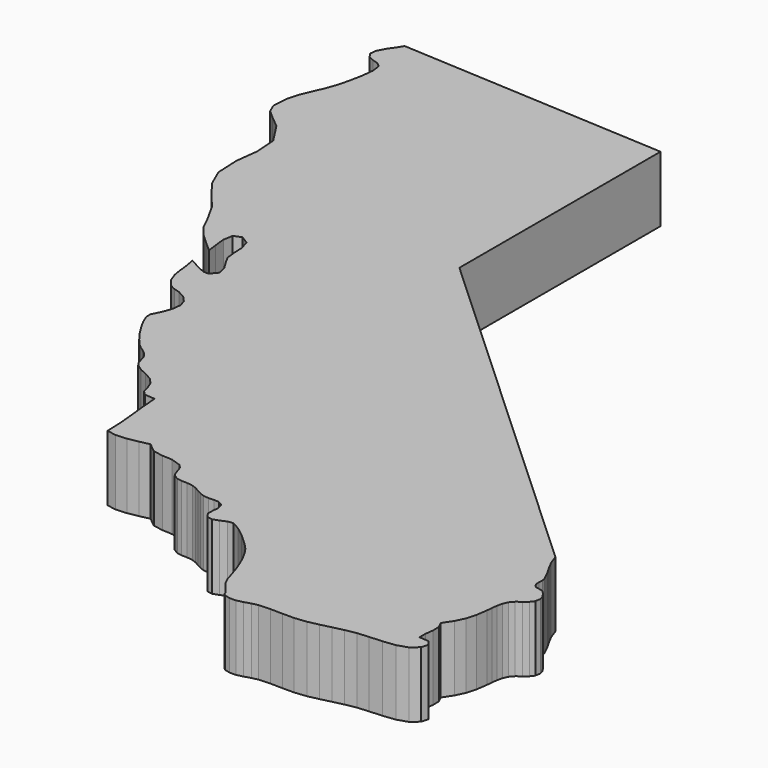
from build123d import *

# Parameters (mm, degrees)
F1_DEPTH = 6.35


with BuildPart() as f1:
    # F0 (on Top) → F1 (new body)
    with BuildSketch(Plane.XY):
        Polygon((30.040257, -19.725407), (29.695212, -18.767953), (20.884796, -10.658853), (12.07438, -2.549752), (3.263964, 5.559348), (-5.546453, 13.668448), (-5.546453, 19.751814), (-5.546453, 25.835181), (-5.546453, 31.918547), (-5.546453, 38.001913), (-12.021124, 38.35743), (-18.495797, 38.712947), (-24.970469, 39.068464), (-31.445141, 39.42398), (-31.757684, 38.928746), (-32.236165, 38.240821), (-32.63981, 37.498857), (-32.727846, 36.841506), (-32.394519, 36.355693), (-31.867969, 36.123363), (-31.320798, 35.95147), (-30.925612, 35.64697), (-30.801566, 34.802958), (-30.945758, 33.55428), (-31.206914, 32.283736), (-31.433763, 31.374131), (-31.814996, 30.278102), (-32.280841, 29.235578), (-32.721091, 28.193411), (-33.025532, 27.098448), (-33.116307, 25.628757), (-32.749888, 24.765666), (-31.977113, 24.081577), (-30.848821, 23.148894), (-29.526729, 21.106228), (-29.385396, 19.001079), (-29.649885, 16.807585), (-29.545259, 14.499882), (-28.783209, 12.76219), (-27.614092, 11.257451), (-26.378137, 9.752533), (-25.415575, 8.014308), (-24.810576, 6.765734), (-24.075989, 5.843523), (-23.185686, 5.020502), (-22.113536, 4.069494), (-22.235537, 4.981824), (-22.355762, 6.112175), (-22.190861, 7.034372), (-21.457489, 7.322236), (-20.692106, 6.838141), (-20.419737, 5.926003), (-20.369741, 4.886234), (-20.271486, 4.019247), (-19.894593, 3.336507), (-19.400113, 2.51707), (-19.211201, 1.708299), (-19.751009, 1.057554), (-20.232542, 1.070634), (-20.880724, 1.343508), (-21.541881, 1.70615), (-22.062343, 1.988532), (-21.873919, 1.107548), (-21.780062, 0.223629), (-21.645321, -0.650512), (-21.334244, -1.502168), (-20.792126, -2.201914), (-20.217566, -2.499748), (-19.599099, -2.684172), (-18.925262, -3.043687), (-18.389469, -3.624602), (-18.184839, -4.2624), (-18.241869, -4.972011), (-18.491057, -5.768369), (-18.810831, -6.440044), (-19.025637, -6.880543), (-19.023399, -7.366728), (-18.692042, -8.175456), (-18.245958, -8.981621), (-17.710106, -9.815337), (-17.129814, -10.603191), (-16.55041, -11.271769), (-16.216996, -11.558657), (-15.876825, -11.791418), (-15.536655, -12.047821), (-15.203238, -12.405633), (-15.008089, -12.789607), (-14.901285, -13.196421), (-14.781684, -13.594169), (-14.548141, -13.950944), (-13.914521, -14.398066), (-13.199309, -14.729288), (-12.512896, -15.103883), (-11.965668, -15.681122), (-11.673907, -16.434166), (-11.525064, -17.026873), (-11.13909, -17.397737), (-10.135941, -17.485252), (-10.014858, -19.081374), (-9.846313, -20.638923), (-9.700521, -22.196471), (-9.647698, -23.792594), (-8.742109, -23.956308), (-7.707288, -23.883606), (-6.662157, -23.688606), (-5.725636, -23.485429), (-4.836667, -24.204624), (-3.87126, -24.381213), (-2.87528, -24.428927), (-1.894587, -24.761498), (-1.585805, -25.110854), (-1.423763, -25.556198), (-1.302784, -25.993365), (-1.11719, -26.318186), (-0.623941, -26.627455), (-0.148288, -26.703328), (0.358648, -26.701345), (0.945754, -26.777041), (1.399526, -26.947406), (1.824234, -27.175101), (2.244145, -27.404039), (2.68352, -27.57814), (3.16889, -27.61978), (3.710253, -27.594139), (4.223886, -27.633734), (4.626064, -27.871084), (4.79975, -28.403929), (4.741371, -29.01952), (4.731521, -29.612894), (5.050789, -30.079082), (5.574258, -30.165147), (6.148388, -29.967687), (6.718608, -29.720455), (7.230344, -29.657203), (7.983314, -30.060034), (8.970124, -30.830647), (9.916584, -31.687648), (10.548501, -32.349647), (10.98078, -32.984599), (11.390838, -33.755358), (11.753968, -34.564869), (12.045463, -35.316077), (12.348024, -36.272654), (12.592367, -37.05645), (12.939632, -37.768075), (13.550959, -38.50814), (13.859235, -38.905876), (13.960158, -39.143096), (14.140894, -39.291791), (14.68861, -39.423955), (15.26711, -39.41603), (15.89014, -39.265987), (16.514412, -39.076659), (17.096644, -38.95088), (18.237704, -38.895152), (19.379298, -38.913905), (20.51627, -38.910617), (21.643464, -38.788767), (22.678908, -38.563533), (23.705463, -38.311547), (24.739127, -38.071113), (25.795898, -37.88054), (26.868685, -37.790462), (28.104031, -37.720203), (29.313249, -37.572973), (30.307645, -37.251984), (30.984045, -36.665915), (31.186008, -36.014785), (30.843319, -35.532171), (29.885766, -35.451645), (29.892136, -34.715653), (29.987207, -33.940819), (29.979888, -33.218422), (29.67909, -32.639741), (30.28369, -31.722642), (30.699779, -30.849716), (30.966018, -29.922572), (31.12107, -28.842824), (31.168991, -28.311193), (31.236375, -27.775207), (31.355843, -27.259665), (31.560013, -26.789358), (31.906124, -26.393757), (32.352224, -26.049884), (32.76935, -25.720941), (33.028537, -25.370134), (33.116307, -24.864605), (33.006851, -24.470796), (32.778831, -24.140802), (32.510907, -23.826719), (32.280043, -23.683476), (31.976565, -23.620046), (31.68073, -23.563016), (31.472796, -23.438972), (31.326382, -23.100505), (31.320399, -22.759105), (31.343213, -22.416816), (31.28319, -22.07568), (30.867219, -21.213688), (30.441917, -20.485457), align=None)
    extrude(amount=F1_DEPTH)


solid = f1.part
